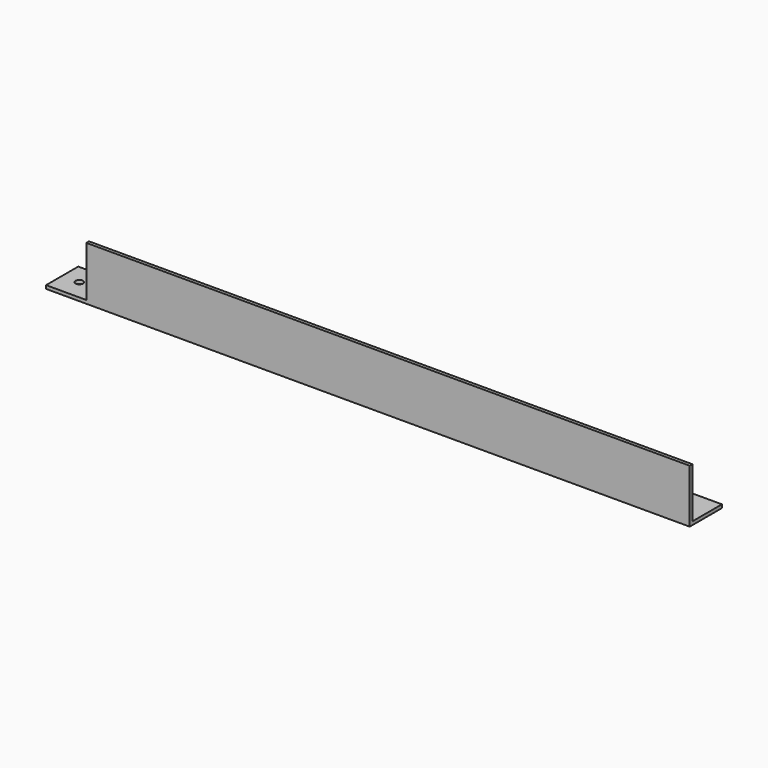
from build123d import *

# Parameters (mm, degrees)
F1_DEPTH = 1219.2
F2_W     = 76.2
F2_H     = 95.25
F3_DEPTH = 25.4
F4_R     = 7.14375
F5_DEPTH = 25.4


with BuildPart() as f1:
    # F0 (on Right) → F1 (new body)
    with BuildSketch(Plane.YZ):
        Polygon((0, 95.25), (-6.35, 95.25), (-6.35, -6.35), (69.85, -6.35), (69.85, 0), (0, 0), align=None)
    extrude(amount=F1_DEPTH)

    # F2 (on face) → F3 (cut)
    with BuildSketch(Plane.XZ.offset(6.35)):
        with Locations((38.1, 47.625)):
            Rectangle(F2_W, F2_H)
    extrude(amount=-F3_DEPTH, mode=Mode.SUBTRACT)

    # F4 (on face) → F5 (cut)
    with BuildSketch(Plane.XY):
        with Locations((32.54375, 31.75)):
            Circle(F4_R)
    extrude(amount=-F5_DEPTH, mode=Mode.SUBTRACT)


solid = f1.part
